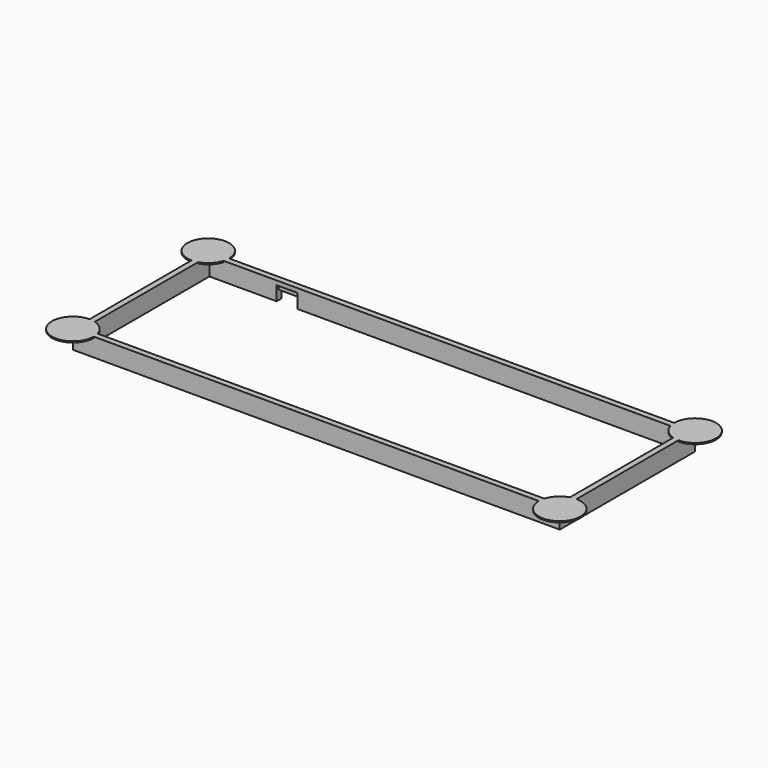
from build123d import *

# Parameters (mm, degrees)
F0_W     = 233
F0_H     = 81
F0_W_2   = 227.4
F0_H_2   = 75.4
F1_DEPTH = 8.8
F2_W     = 10
F2_H     = 4.4
F3_DEPTH = 25
F4_W     = 10
F4_H     = 1.2
F5_DEPTH = 2.4
F6_R     = 10
F7_DEPTH = 0.6


with BuildPart() as f1:
    # F0 (on Top) → F1 (new body)
    with BuildSketch(Plane.XY):
        Rectangle(F0_W, F0_H)
        Rectangle(F0_W_2, F0_H_2, mode=Mode.SUBTRACT)
    extrude(amount=F1_DEPTH)

    # F2 (on face) → F3 (cut)
    with BuildSketch(Plane(origin=(0, 40.5, 0), x_dir=(-1, 0, 0), z_dir=(0, 1, 0))):
        with Locations((76.5, 2.2)):
            Rectangle(F2_W, F2_H)
    extrude(amount=-F3_DEPTH, mode=Mode.SUBTRACT)

    # F4 (on face) → F5 (cut)
    with BuildSketch(Plane(origin=(0, 0, 4.4), x_dir=(1, 0, 0), z_dir=(0, 0, -1))):
        with Locations((-76.5, -38.3)):
            Rectangle(F4_W, F4_H)
    extrude(amount=-F5_DEPTH, mode=Mode.SUBTRACT)

    # F6 (on face) → F7 (join)
    with BuildSketch(Plane.XY.offset(8.8)):
        with Locations((-116.5, 40.5)):
            Circle(F6_R)
        with Locations((-116.5, -40.5)):
            Circle(F6_R)
        with Locations((116.5, -40.5)):
            Circle(F6_R)
        with Locations((116.5, 40.5)):
            Circle(F6_R)
    extrude(amount=-F7_DEPTH)


solid = f1.part
